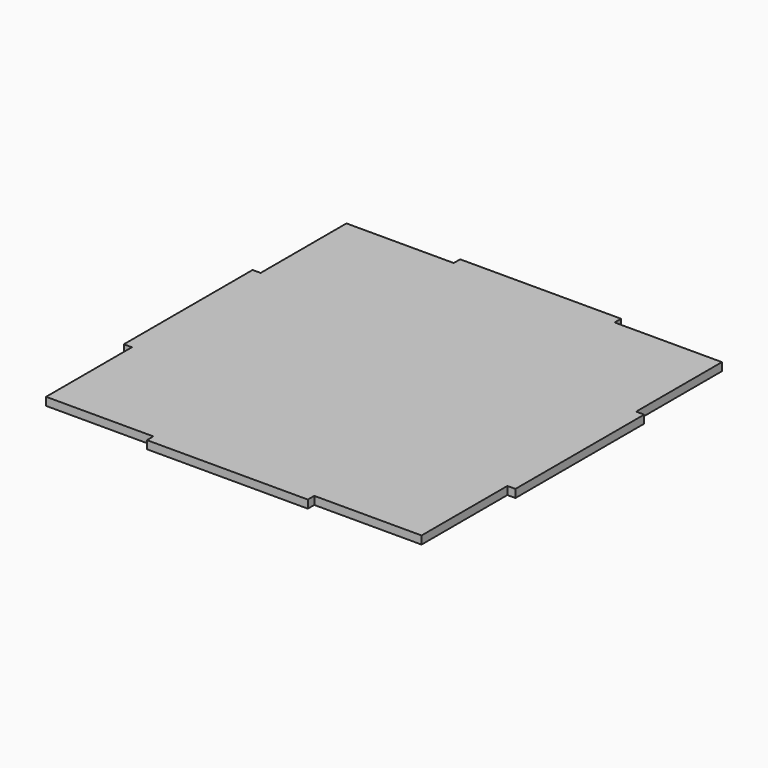
from build123d import *

# Parameters (mm, degrees)
F1_DEPTH = 3


with BuildPart() as f1:
    # F0 (on Top) → F1 (new body)
    with BuildSketch(Plane.XY):
        Polygon((30, -70), (70, -70), (70, -30), (73, -30), (73, 30), (70, 30), (70, 70), (30, 70), (30, 73), (-30, 73), (-30, 70), (-70, 70), (-70, 30), (-73, 30), (-73, -30), (-70, -30), (-70, -70), (-30, -70), (-30, -73), (30, -73), align=None)
    extrude(amount=F1_DEPTH)


solid = f1.part
